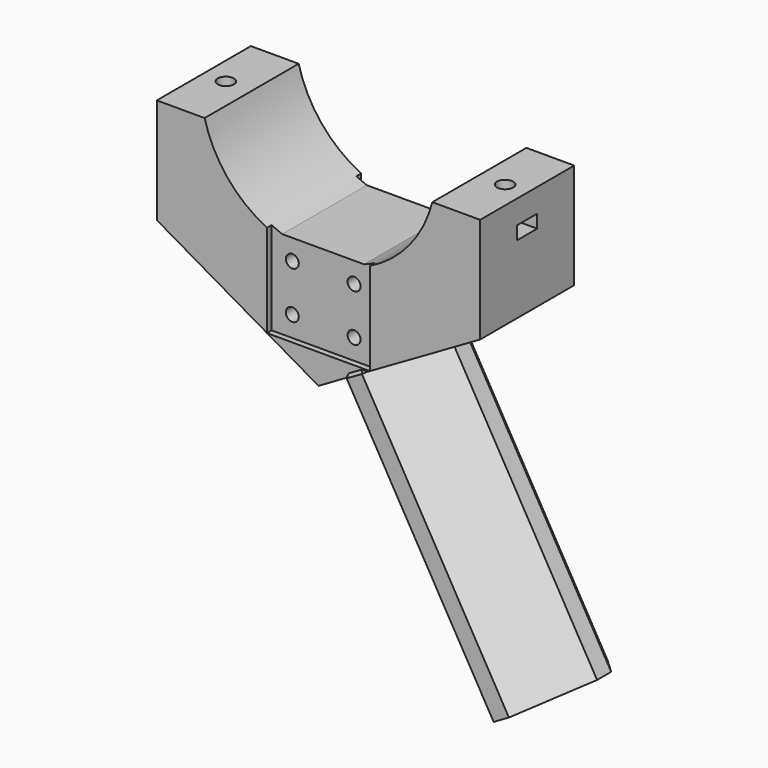
from build123d import *

# Parameters (mm, degrees)
PAD_DEPTH       = 20
SKETCH003_R     = 2.2
HOLE_DEPTH      = 40.001
POCKET001_DEPTH = 4.5
SKETCH007_R     = 2.75
HOLE001_DEPTH   = 12
PAD001_DEPTH    = 101
SKETCH011_R     = 45
HOLE002_DEPTH   = 12
CHAMFER_SIZE    = 0.99
SKETCH009_W     = 35
SKETCH009_H     = 67.5
POCKET_DEPTH    = 2


with BuildPart() as part:
    # Sketch → Pad (new body, symmetric)
    with BuildSketch(Plane.XZ):
        with BuildLine():
            ThreePointArc((13.9194109071, -37.5), (29.6992968462, -26.794621976), (38.7298334621, -10))
            Line((38.7298334621, -10), (55, -10))
            Line((55, -10), (55, -45.8493649054))
            Line((0, -77.6036297108), (55, -45.8493649054))
            Line((-55, -45.8493649054), (0, -77.6036297108))
            Line((-55, -45.8493649054), (-55, -10))
            Line((-55, -10), (-38.7298334621, -10))
            ThreePointArc((-38.7298334621, -10), (-29.6992968462, -26.794621976), (-13.9194109071, -37.5))
            Line((-13.9194109071, -37.5), (13.9194109071, -37.5))
        make_face()
    extrude(amount=PAD_DEPTH, both=True)

    # Sketch003 → Hole (cut, through all)
    with BuildSketch(Plane.XZ.offset(20)):
        with Locations((-10.5, -44.5)):
            Circle(SKETCH003_R)
        with Locations((10.5, -44.5)):
            Circle(SKETCH003_R)
        with Locations((-10.5, -60.5)):
            Circle(SKETCH003_R)
        with Locations((10.5, -60.5)):
            Circle(SKETCH003_R)
    extrude(amount=-HOLE_DEPTH, mode=Mode.SUBTRACT)

    # Sketch006 → Pocket001 (cut)
    with BuildSketch(Plane(origin=(0, 0, -18), x_dir=(-1, 0, 0), z_dir=(0, 0, 1))):
        Polygon((55, 4.25), (45.0462616441, 4.25), (42.592523, 0), (45.0462616441, -4.25), (55, -4.25), align=None)
        Polygon((-55, 4.25), (-55, -4.25), (-45.0462616441, -4.25), (-42.592523, 0), (-45.0462616441, 4.25), align=None)
    extrude(amount=-POCKET001_DEPTH, mode=Mode.SUBTRACT)

    # Sketch007 (on Face5 of Pocket001) → Hole001 (cut)
    with BuildSketch(Plane(origin=(0, 0, -10), x_dir=(-1, 0, 0), z_dir=(0, 0, 1))):
        with Locations((47.5, 0)):
            Circle(SKETCH007_R)
        with Locations((-47.5, 0)):
            Circle(SKETCH007_R)
    extrude(amount=-HOLE001_DEPTH, mode=Mode.SUBTRACT)

    # Sketch010 (on Face10 of Hole001) → Pad001 (join)
    with BuildSketch(Plane(origin=(33.1033573777, 0, -57.3366968793), x_dir=(0.8660254038, 0, 0.5), z_dir=(0.5, 0, -0.8660254038))):
        Polygon((-38.8, 9), (-38.8, -9), (-26.8, -21), (-20.8, -21), (-2.8, -3), (-2.8, 3), (-20.8, 21), (-26.8, 21), align=None)
    extrude(amount=PAD001_DEPTH)

    # Sketch011 (on Face30 of Pad001) → Hole002 (cut)
    with BuildSketch(Plane(origin=(-33.6017856668, 0, -19.4), x_dir=(0.5, 0, -0.8660254038), z_dir=(-0.8660254038, 0, -0.5))):
        with Locations((117.5, 0)):
            Circle(SKETCH011_R)
    extrude(amount=-HOLE002_DEPTH, mode=Mode.SUBTRACT)

    # Chamfer
    chamfer_edges = [part.edges().sort_by_distance(p)[0] for p in [
        (9.460864, 20.5, -70.986697),
        (12.491953, 21, -69.236697),
        (15.523042, 20.5, -67.486697),
        (15.523042, -20.5, -67.486697),
        (12.491953, -21, -69.236697),
        (9.460864, -20.5, -70.986697),
    ]]
    chamfer(chamfer_edges, length=CHAMFER_SIZE)

    # Sketch009 → Pocket (cut)
    with BuildSketch(Plane(origin=(0, 20, 0), x_dir=(1, 0, 0), z_dir=(0, 1, 0))):
        with Locations((0, 33.75)):
            Rectangle(SKETCH009_W, SKETCH009_H)
    pocket = extrude(amount=-POCKET_DEPTH, mode=Mode.SUBTRACT)

    # Mirrored: Pocket across XZ
    add(pocket.mirror(Plane.XZ), mode=Mode.SUBTRACT)


solid = part.part
